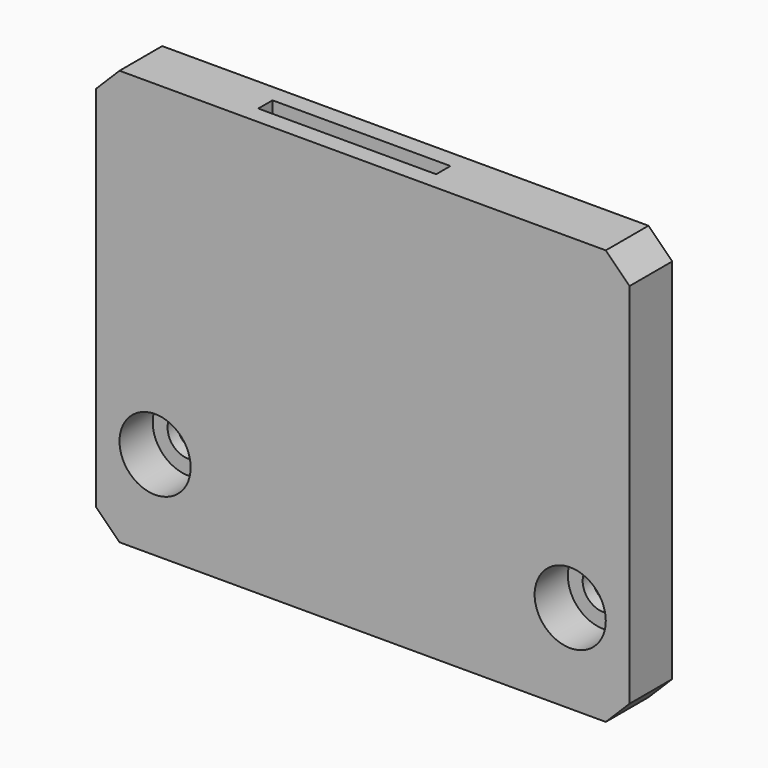
from build123d import *

# Parameters (mm, degrees)
F0_W     = 45
F0_H     = 35
F1_DEPTH = 4.5
F2_W     = 15
F2_H     = 1.5
F3_DEPTH = 35.001
F4_R     = 3
F5_DEPTH = 3.5
F6_R     = 1.75
F7_DEPTH = 4.501
F8_W     = 10
F8_H     = 10
F9_DEPTH = 3
F10_SIZE = 2


with BuildPart() as f1:
    # F0 (on Front) → F1 (new body)
    with BuildSketch(Plane.XZ):
        with Locations((0, 2.5)):
            Rectangle(F0_W, F0_H)
    extrude(amount=F1_DEPTH)

    # F2 (on face) → F3 (cut, through all)
    with BuildSketch(Plane.XY.offset(20)):
        with Locations((-2.5, -2.25)):
            Rectangle(F2_W, F2_H)
    extrude(amount=-F3_DEPTH, mode=Mode.SUBTRACT)

    # F4 (on face) → F5 (cut)
    with BuildSketch(Plane.XZ.offset(4.5)):
        with Locations((17.5, -7.5)):
            Circle(F4_R)
        with Locations((-17.5, -7.5)):
            Circle(F4_R)
    extrude(amount=-F5_DEPTH, mode=Mode.SUBTRACT)

    # F6 (on face) → F7 (cut, through all)
    with BuildSketch(Plane.XZ.offset(4.5)):
        with Locations((17.5, -7.5)):
            Circle(F6_R)
        with Locations((-17.5, -7.5)):
            Circle(F6_R)
    extrude(amount=-F7_DEPTH, mode=Mode.SUBTRACT)

    # F8 (on face) → F9 (cut)
    with BuildSketch(Plane(origin=(0, 0, 0), x_dir=(-1, 0, 0), z_dir=(0, 1, 0))):
        with Locations((5, 10)):
            Rectangle(F8_W, F8_H)
    extrude(amount=-F9_DEPTH, mode=Mode.SUBTRACT)

    # F10
    f10_edges = [f1.edges().sort_by_distance(p)[0] for p in [
        (-22.5, -2.25, 20),
        (22.5, -2.25, 20),
        (22.5, -2.25, -15),
        (-22.5, -2.25, -15),
    ]]
    chamfer(f10_edges, length=F10_SIZE)


solid = f1.part
